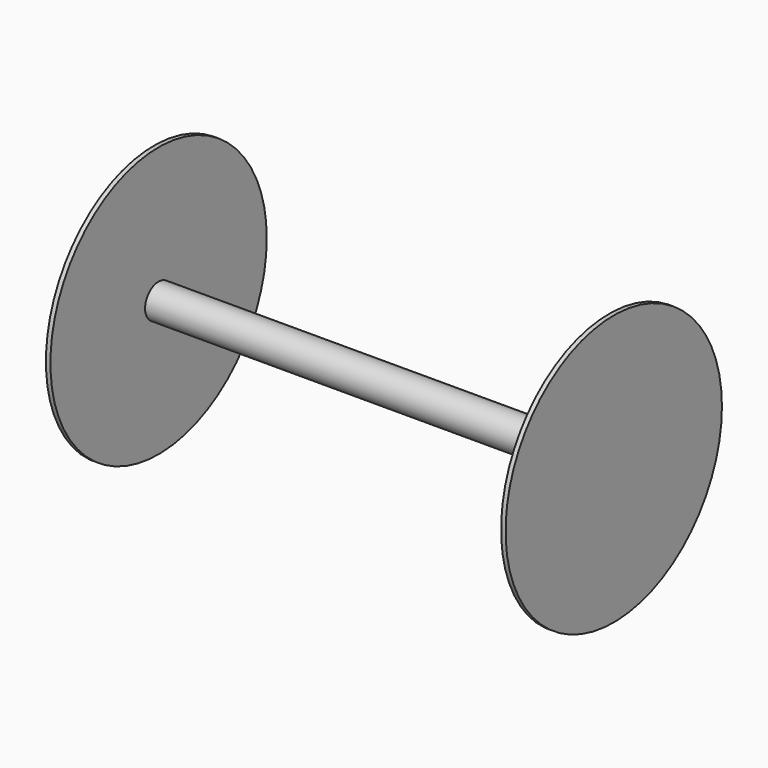
from build123d import *

# Parameters (mm, degrees)
F0_R     = 60
F0_R_2   = 7.5
F1_DEPTH = 2
F2_R     = 7.5
F3_DEPTH = 200
F5_R     = 60
F6_DEPTH = 2


with BuildPart() as f1:
    # F0 (on Right) → F1 (new body)
    with BuildSketch(Plane.YZ):
        Circle(F0_R)
        Circle(F0_R_2, mode=Mode.SUBTRACT)
        Circle(F0_R_2)
    extrude(amount=F1_DEPTH)

    # F2 (on face) → F3 (join)
    with BuildSketch(Plane.YZ.offset(2)):
        Circle(F2_R)
    extrude(amount=F3_DEPTH)

    # F5 (on face) → F6 (join)
    with BuildSketch(Plane.YZ.offset(202)):
        Circle(F5_R)
    extrude(amount=F6_DEPTH)


solid = f1.part
